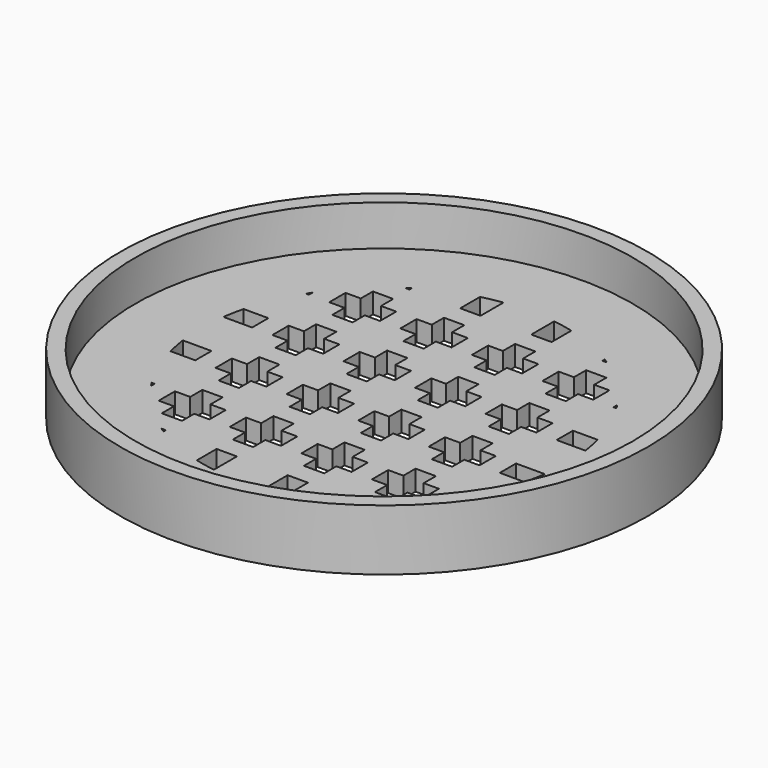
from build123d import *

# Parameters (mm, degrees)
F0_R      = 18
F1_DEPTH  = 2
F2_W      = 2
F2_H      = 3.7888848514
F2_H_2    = 2
F2_W_2    = 3.7888848514
F2_W_3    = 5
F2_H_3    = 5
F2_H_4    = 6.5
F2_W_4    = 10.3915883452
F2_W_5    = 6.32554347
F3_DEPTH  = 25
F4_R      = 26
F4_R_2    = 18
F5_DEPTH  = 2
F6_W      = 2
F6_H      = 14.9629610606
F7_DEPTH  = 25
F8_W      = 2
F8_H      = 7
F8_H_2    = 2
F8_W_2    = 7
F8_W_3    = 5
F8_H_3    = 5
F9_DEPTH  = 25
F10_W     = 2
F10_H     = 4.449899598
F10_H_2   = 2
F10_W_2   = 5
F10_H_3   = 5
F10_W_3   = 4.5110009685
F10_H_4   = 1.9705627485
F10_W_4   = 0.7480013072
F10_H_5   = 2.9722007556
F10_W_5   = 2.449899598
F10_W_6   = 4.950591743
F10_W_7   = 0.3062231223
F10_W_8   = 0.9814261347
F10_W_9   = 4.6413404942
F10_W_10  = 4.449899598
F11_DEPTH = 2
F12_W     = 2
F12_H     = 1.5
F12_H_2   = 2
F12_W_2   = 1.5
F12_W_3   = 5.0511056967
F12_H_3   = 5
F12_H_4   = 4.4042798057
F12_W_4   = 4.5
F12_H_5   = 1.2301239707
F12_W_5   = 4.9488943033
F12_H_6   = 3.5
F12_W_6   = 9.4488943033
F12_H_7   = 0.5281857923
F12_W_7   = 3.5
F13_DEPTH = 2
F14_W     = 2
F14_H     = 5.8272941969
F14_W_2   = 4.7783707269
F14_H_2   = 2
F14_W_3   = 5.0434912555
F15_DEPTH = 2
F16_R     = 26
F16_R_2   = 24.5
F17_DEPTH = 4


with BuildPart() as f1:
    # F0 (on Top) → F1 (new body)
    with BuildSketch(Plane.XY):
        Circle(F0_R)
    extrude(amount=F1_DEPTH)

    # F2 (on Top) → F3 (cut)
    with BuildSketch(Plane.XY):
        with Locations((-10.5, 13.3944424257)):
            Rectangle(F2_W, F2_H)
        with Locations((-10.5, 10.5)):
            Rectangle(F2_W, F2_H_2)
        with Locations((-13.3944424257, 10.5)):
            Rectangle(F2_W_2, F2_H_2)
        with Locations((-7, 10.5)):
            Rectangle(F2_W_3, F2_H_2)
        with Locations((-10.5, 7)):
            Rectangle(F2_W, F2_H_3)
        with Locations((-3.5, 10.5)):
            Rectangle(F2_W, F2_H_2)
        with Locations((-3.5, 14.75)):
            Rectangle(F2_W, F2_H_4)
        with Locations((-10.5, 3.5)):
            Rectangle(F2_W, F2_H_2)
        with Locations((-16.6957941726, 3.5)):
            Rectangle(F2_W_4, F2_H_2)
        with Locations((0, 10.5)):
            Rectangle(F2_W_3, F2_H_2)
        with Locations((-10.5, 0)):
            Rectangle(F2_W, F2_H_3)
        with Locations((3.5, 10.5)):
            Rectangle(F2_W, F2_H_2)
        with Locations((3.5, 14.75)):
            Rectangle(F2_W, F2_H_4)
        with Locations((-10.5, -3.5)):
            Rectangle(F2_W, F2_H_2)
        with Locations((-14.662771735, -3.5)):
            Rectangle(F2_W_5, F2_H_2)
        with Locations((7, 10.5)):
            Rectangle(F2_W_3, F2_H_2)
        with Locations((-10.5, -7)):
            Rectangle(F2_W, F2_H_3)
        with Locations((10.5, 10.5)):
            Rectangle(F2_W, F2_H_2)
        with Locations((10.5, 13.3944424257)):
            Rectangle(F2_W, F2_H)
        with Locations((-10.5, -10.5)):
            Rectangle(F2_W, F2_H_2)
        with Locations((-13.3944424257, -10.5)):
            Rectangle(F2_W_2, F2_H_2)
        with Locations((-7, -10.5)):
            Rectangle(F2_W_3, F2_H_2)
        with Locations((10.5, 7)):
            Rectangle(F2_W, F2_H_3)
        with Locations((13.3944424257, 10.5)):
            Rectangle(F2_W_2, F2_H_2)
        with Locations((-10.5, -13.3944424257)):
            Rectangle(F2_W, F2_H)
        with Locations((-3.5, -10.5)):
            Rectangle(F2_W, F2_H_2)
        with Locations((10.5, 3.5)):
            Rectangle(F2_W, F2_H_2)
        with Locations((-3.5, -14.75)):
            Rectangle(F2_W, F2_H_4)
        with Locations((0, -10.5)):
            Rectangle(F2_W_3, F2_H_2)
        with Locations((10.5, 0)):
            Rectangle(F2_W, F2_H_3)
        with Locations((14.662771735, 3.5)):
            Rectangle(F2_W_5, F2_H_2)
        with Locations((3.5, -10.5)):
            Rectangle(F2_W, F2_H_2)
        with Locations((10.5, -3.5)):
            Rectangle(F2_W, F2_H_2)
        with Locations((3.5, -14.75)):
            Rectangle(F2_W, F2_H_4)
        with Locations((7, -10.5)):
            Rectangle(F2_W_3, F2_H_2)
        with Locations((10.5, -7)):
            Rectangle(F2_W, F2_H_3)
        with Locations((14.662771735, -3.5)):
            Rectangle(F2_W_5, F2_H_2)
        with Locations((10.5, -10.5)):
            Rectangle(F2_W, F2_H_2)
        with Locations((10.5, -13.3944424257)):
            Rectangle(F2_W, F2_H)
        with Locations((13.3944424257, -10.5)):
            Rectangle(F2_W_2, F2_H_2)
    extrude(amount=F3_DEPTH, mode=Mode.SUBTRACT)

    # F4 (on Top) → F5 (join)
    with BuildSketch(Plane.XY):
        Circle(F4_R)
        Circle(F4_R_2, mode=Mode.SUBTRACT)
    extrude(amount=F5_DEPTH)

    # F6 (on Top) → F7 (cut)
    with BuildSketch(Plane.XY):
        with Locations((-3.2850390417, 2.0185194697)):
            Rectangle(F6_W, F6_H)
    extrude(amount=-F7_DEPTH, mode=Mode.SUBTRACT)

    # F8 (on Top) → F9 (cut)
    with BuildSketch(Plane.XY):
        with Locations((-3.5, 8)):
            Rectangle(F8_W, F8_H)
        with Locations((-3.5, 3.5)):
            Rectangle(F8_W, F8_H_2)
        with Locations((-8, 3.5)):
            Rectangle(F8_W_2, F8_H_2)
        with Locations((0, 3.5)):
            Rectangle(F8_W_3, F8_H_2)
        with Locations((-3.5, 0)):
            Rectangle(F8_W, F8_H_3)
        with Locations((3.5, 3.5)):
            Rectangle(F8_W, F8_H_2)
        with Locations((3.5, 8)):
            Rectangle(F8_W, F8_H)
        with Locations((-3.5, -3.5)):
            Rectangle(F8_W, F8_H_2)
        with Locations((-8, -3.5)):
            Rectangle(F8_W_2, F8_H_2)
        with Locations((0, -3.5)):
            Rectangle(F8_W_3, F8_H_2)
        with Locations((3.5, 0)):
            Rectangle(F8_W, F8_H_3)
        with Locations((8, 3.5)):
            Rectangle(F8_W_2, F8_H_2)
        with Locations((-3.5, -8)):
            Rectangle(F8_W, F8_H)
        with Locations((3.5, -3.5)):
            Rectangle(F8_W, F8_H_2)
        with Locations((3.5, -8)):
            Rectangle(F8_W, F8_H)
        with Locations((8, -3.5)):
            Rectangle(F8_W_2, F8_H_2)
    extrude(amount=F9_DEPTH, mode=Mode.SUBTRACT)

    # F10 (on Top) → F11 (join)
    with BuildSketch(Plane.XY):
        with Locations((-14, 10.224949799)):
            Rectangle(F10_W, F10_H)
        with Locations((-14, 7)):
            Rectangle(F10_W, F10_H_2)
        with Locations((-10.5, 7)):
            Rectangle(F10_W_2, F10_H_2)
        Polygon((-13, 6), (-15, 6), (-15, -12.449899598), (-13, -12.449899598), (-13, -8), (-13.7480013072, -8), (-13.7480013072, -6), (-13, -6), (-13, -1), (-13.9541681856, -1), (-13.9541681856, 1), (-13, 1), align=None)
        with Locations((-7, 10.5)):
            Rectangle(F10_W, F10_H_3)
        with Locations((-7, 7)):
            Rectangle(F10_W, F10_H_2)
        with Locations((-7, 14)):
            Rectangle(F10_W, F10_H_2)
        with Locations((-10.2555004843, 14)):
            Rectangle(F10_W_3, F10_H_2)
        with Locations((-3.5, 14)):
            Rectangle(F10_W_2, F10_H_2)
        with Locations((-7, 15.9852813742)):
            Rectangle(F10_W, F10_H_4)
        with Locations((-10.5, -7)):
            Rectangle(F10_W_2, F10_H_2)
        with Locations((-13.3740006536, -7)):
            Rectangle(F10_W_4, F10_H_2)
        with Locations((0, 14)):
            Rectangle(F10_W, F10_H_2)
        with Locations((-7, -7)):
            Rectangle(F10_W, F10_H_2)
        with Locations((-7, -10.5)):
            Rectangle(F10_W, F10_H_3)
        with Locations((7, 10.5)):
            Rectangle(F10_W, F10_H_3)
        with Locations((7, 7)):
            Rectangle(F10_W, F10_H_2)
        with Locations((3.5, 14)):
            Rectangle(F10_W_2, F10_H_2)
        with Locations((0, 16.4861003778)):
            Rectangle(F10_W, F10_H_5)
        with Locations((-9.224949799, -14)):
            Rectangle(F10_W_5, F10_H_2)
        with Locations((-7, -14)):
            Rectangle(F10_W, F10_H_2)
        with Locations((10.5, 7)):
            Rectangle(F10_W_2, F10_H_2)
        with Locations((7, 14)):
            Rectangle(F10_W, F10_H_2)
        with Locations((-3.5, -14)):
            Rectangle(F10_W_2, F10_H_2)
        with Locations((-7, -15.9852813742)):
            Rectangle(F10_W, F10_H_4)
        with Locations((14, 10.224949799)):
            Rectangle(F10_W, F10_H)
        with Locations((14, 7)):
            Rectangle(F10_W, F10_H_2)
        with Locations((10.4752958715, 14)):
            Rectangle(F10_W_6, F10_H_2)
        with Locations((7, 15.9852813742)):
            Rectangle(F10_W, F10_H_4)
        with Locations((7, 0)):
            Rectangle(F10_W, F10_H_2)
        with Locations((0, -14)):
            Rectangle(F10_W, F10_H_2)
        with Locations((15.1531115612, 7)):
            Rectangle(F10_W_7, F10_H_2)
        Polygon((15, 6), (13, 6), (13, 1), (13.9814261347, 1), (13.9814261347, -1), (13, -1), (13, -12.449899598), (15, -12.449899598), align=None)
        with Locations((10.5, 0)):
            Rectangle(F10_W_2, F10_H_2)
        with Locations((7, -3.5)):
            Rectangle(F10_W, F10_H_3)
        with Locations((7, -7)):
            Rectangle(F10_W, F10_H_2)
        with Locations((7, -10.5)):
            Rectangle(F10_W, F10_H_3)
        with Locations((3.5, -14)):
            Rectangle(F10_W_2, F10_H_2)
        with Locations((0, -16.4861003778)):
            Rectangle(F10_W, F10_H_5)
        with Locations((13.4907130674, 0)):
            Rectangle(F10_W_8, F10_H_2)
        with Locations((10.3206702471, -7)):
            Rectangle(F10_W_9, F10_H_2)
        with Locations((7, -14)):
            Rectangle(F10_W, F10_H_2)
        with Locations((10.224949799, -14)):
            Rectangle(F10_W_10, F10_H_2)
        with Locations((7, -15.9852813742)):
            Rectangle(F10_W, F10_H_4)
    extrude(amount=F11_DEPTH)

    # F12 (on Top) → F13 (join)
    with BuildSketch(Plane.XY):
        with Locations((-7, 8.75)):
            Rectangle(F12_W, F12_H)
        with Locations((-7, 7)):
            Rectangle(F12_W, F12_H_2)
        with Locations((-8.75, 7)):
            Rectangle(F12_W_2, F12_H_2)
        with Locations((-3.4744471516, 7)):
            Rectangle(F12_W_3, F12_H_2)
        with Locations((-7, 3.5)):
            Rectangle(F12_W, F12_H_3)
        with Locations((0.0511056967, 7)):
            Rectangle(F12_W, F12_H_2)
        with Locations((0.0511056967, 10.2021399029)):
            Rectangle(F12_W, F12_H_4)
        with Locations((-7, 0)):
            Rectangle(F12_W, F12_H_2)
        with Locations((-10.25, 0)):
            Rectangle(F12_W_4, F12_H_2)
        Polygon((10.5, 8), (1.0511056967, 8), (1.0511056967, 6), (6, 6), (8, 6), (10.5, 6), align=None)
        with Locations((-7, -3.5)):
            Rectangle(F12_W, F12_H_3)
        with Locations((0.0511056967, 0)):
            Rectangle(F12_W, F12_H_2)
        with Locations((-7, -6.6150619853)):
            Rectangle(F12_W, F12_H_5)
        Polygon((-8, -7.2301239707), (-8, -6), (-9.5, -6), (-9.5, -8), (-0.9488943033, -8), (-0.9488943033, -6), (-6, -6), (-6, -7.2301239707), align=None)
        with Locations((0.0511056967, -3.5)):
            Rectangle(F12_W, F12_H_3)
        with Locations((3.5255528484, 0)):
            Rectangle(F12_W_5, F12_H_2)
        with Locations((7, 3.5)):
            Rectangle(F12_W, F12_H_3)
        with Locations((0.0511056967, -7)):
            Rectangle(F12_W, F12_H_2)
        with Locations((7, 0)):
            Rectangle(F12_W, F12_H_2)
        with Locations((0.0511056967, -9.75)):
            Rectangle(F12_W, F12_H_6)
        with Locations((5.7755528484, -7)):
            Rectangle(F12_W_6, F12_H_2)
        with Locations((7, -1.2640928961)):
            Rectangle(F12_W, F12_H_7)
        with Locations((9.75, 0)):
            Rectangle(F12_W_7, F12_H_2)
    extrude(amount=F13_DEPTH)

    # F14 (on Top) → F15 (join)
    with BuildSketch(Plane.XY):
        with Locations((0.0511056967, 2.9136470985)):
            Rectangle(F14_W, F14_H)
        with Locations((-4.274390405, 0)):
            Rectangle(F14_W_2, F14_H_2)
        with Locations((-9.704351658, -14)):
            Rectangle(F14_W_3, F14_H_2)
    extrude(amount=F15_DEPTH)

    # F16 (on face) → F17 (join)
    with BuildSketch(Plane.XY.offset(2)):
        Circle(F16_R)
        Circle(F16_R_2, mode=Mode.SUBTRACT)
    extrude(amount=F17_DEPTH)


solid = f1.part
